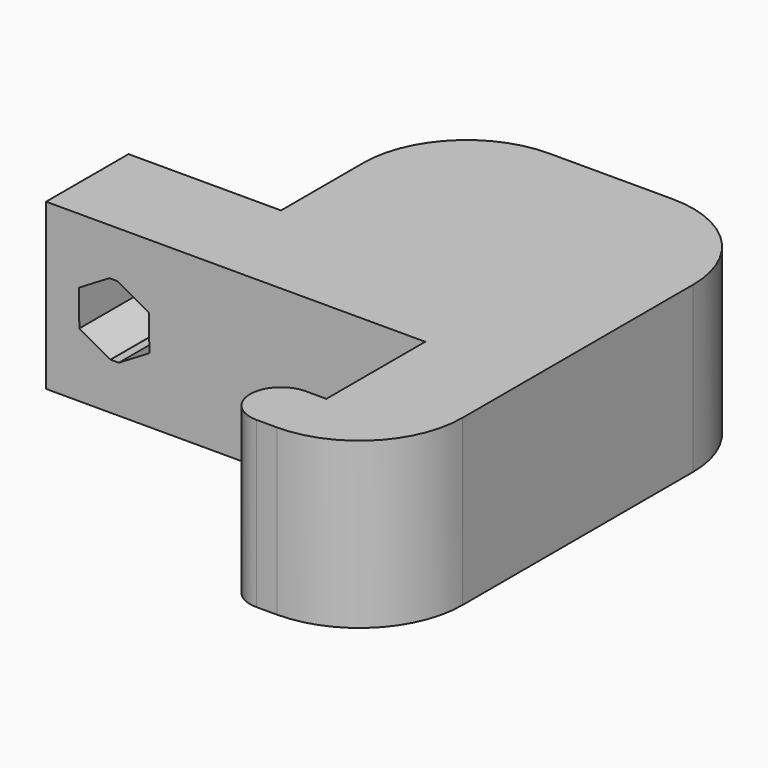
from build123d import *

# Parameters (mm, degrees)
F1_DEPTH      = 8
F3_DEPTH      = 25
F3_DEPTH_BACK = 25
F4_W          = 16
F4_H          = 8
F5_DEPTH      = 10
F6_R          = 5
F7_R          = 5
F8_DEPTH      = 0.4


with BuildPart() as f1:
    # F0 (on Top) → F1 (new body)
    with BuildSketch(Plane.XY):
        with BuildLine():
            Line((-1, 0), (0, 0))
            Line((0, 0), (5, 0))
            Line((5, 0), (5, 14))
            Line((5, 14), (-18, 14))
            Line((-18, 14), (-18, 9))
            Line((-18, 9), (0, 9))
            Line((0, 9), (0, 3))
            Line((0, 3), (-1, 3))
            ThreePointArc((-1, 3), (-2.5, 1.5), (-1, 0))
        make_face()
    extrude(amount=F1_DEPTH)

    # F2 (on face) → F3 (cut, two sides)
    with BuildSketch(Plane(origin=(0, 14, 0), x_dir=(-1, 0, 0), z_dir=(0, 1, 0))) as f3_sk:
        Polygon((15.3, 2.2838863602), (15.3, 5.7318202537), (14.9282596673, 5.7318202537), (13.4143294991, 4.8903837167), (13.3860698318, 3.1585634629), (14.8717403327, 2.2681797463), (15.2717403327, 2.2681797463), align=None)
        Polygon((15.3282596673, 5.7318202537), (15.3, 5.7318202537), (15.3, 2.2838863602), (16.7856705009, 3.1096162833), (16.8139301682, 4.8414365371), align=None)
    extrude(amount=-F3_DEPTH, mode=Mode.SUBTRACT)
    extrude(f3_sk.sketch, amount=F3_DEPTH_BACK, mode=Mode.SUBTRACT)

    # F4 (on face) → F5 (join)
    with BuildSketch(Plane(origin=(0, 14, 0), x_dir=(-1, 0, 0), z_dir=(0, 1, 0))):
        with Locations((3, 4)):
            Rectangle(F4_W, F4_H)
    extrude(amount=F5_DEPTH)

    # F6
    f6_edges = [f1.edges().sort_by_distance(p)[0] for p in [
        (5, 24, 4),
        (-11, 24, 4),
    ]]
    fillet(f6_edges, radius=F6_R)

    # F7
    f7_edges = [f1.edges().sort_by_distance(p)[0] for p in [
        (5, 0, 4),
    ]]
    fillet(f7_edges, radius=F7_R)

    # F8 (add): a face of the model
    f8_faces = [f1.faces().sort_by_distance(p)[0] for p in [
        (-18, 11.5, 4),
    ]]
    extrude(f8_faces, amount=F8_DEPTH)


solid = f1.part
